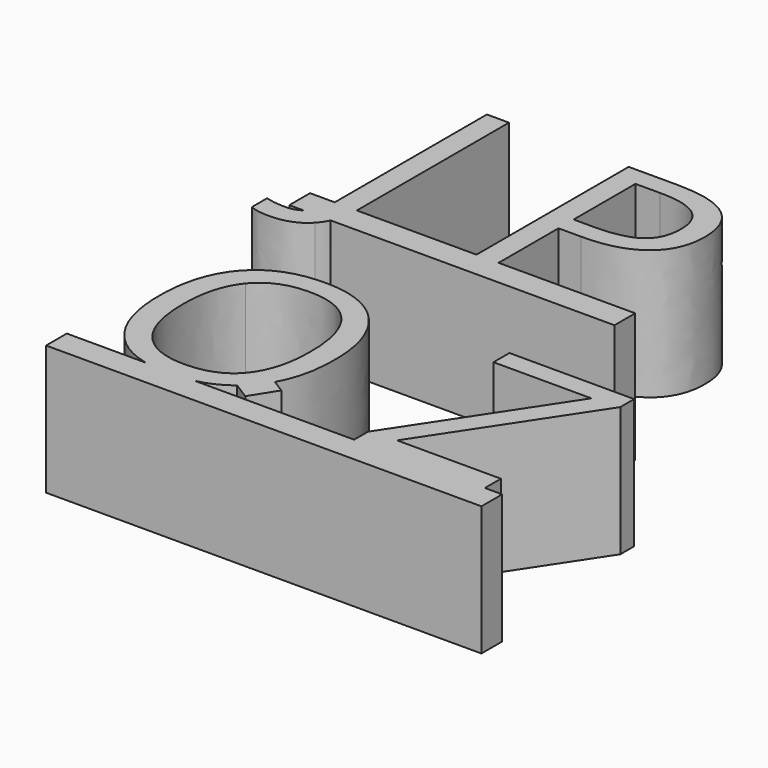
from build123d import *

# Parameters (mm, degrees)
F1_DEPTH = 25


with BuildPart() as f1:
    # F0 (on Top) → F1 (new body)
    with BuildSketch(Plane.XY):
        with BuildLine():
            Line((4.76953125, 0), (0, 0))
            Line((0, 0), (0, -5))
            Line((0, -5), (2.7536867479, -5))
            add(Edge.make_bspline(
                [(2.7536867479, -5), (3.1528031854, -4.7172538817), (3.4767795139, -4.3399522569)],
                knots=[0.7493901424, 0.7493901424, 0.7493901424, 1, 1, 1], degree=2))
            add(Edge.make_bspline(
                [(3.4767795139, -4.3399522569), (4.76953125, -2.8344184028), (4.76953125, 0)],
                knots=[0, 0, 0, 1, 1, 1], degree=2))
        make_face()
        with BuildLine():
            Line((4.76953125, 36.6868489583), (4.76953125, 0))
            Line((4.76953125, 0), (9.0298425084, 0))
            add(Edge.make_bspline(
                [(9.033203125, 0.3532986111), (9.033203125, 0.1751510307), (9.0298425084, 0)],
                knots=[0, 0, 0, 0.0373511717, 0.0373511717, 0.0373511717], degree=2))
            Line((9.033203125, 0.3532986111), (9.033203125, 36.6868489583))
            Line((9.033203125, 36.6868489583), (4.76953125, 36.6868489583))
        make_face()
        with BuildLine():
            Line((9.0298425084, 0), (4.76953125, 0))
            add(Edge.make_bspline(
                [(3.4767795139, -4.3399522569), (4.76953125, -2.8344184028), (4.76953125, 0)],
                knots=[0, 0, 0, 1, 1, 1], degree=2))
            add(Edge.make_bspline(
                [(2.7536867479, -5), (3.1528031854, -4.7172538817), (3.4767795139, -4.3399522569)],
                knots=[0.7493901424, 0.7493901424, 0.7493901424, 1, 1, 1], degree=2))
            Line((2.7536867479, -5), (7.987156225, -5))
            add(Edge.make_bspline(
                [(9.0298425084, 0), (8.9739126319, -2.9149934948), (7.987156225, -5)],
                knots=[0.0373511717, 0.0373511717, 0.0373511717, 0.6589771022, 0.6589771022, 0.6589771022], degree=2))
        make_face()
        with BuildLine():
            Line((32.1180555556, 0), (9.0298425084, 0))
            add(Edge.make_bspline(
                [(9.0298425084, 0), (8.9739126319, -2.9149934948), (7.987156225, -5)],
                knots=[0.0373511717, 0.0373511717, 0.0373511717, 0.6589771022, 0.6589771022, 0.6589771022], degree=2))
            Line((7.987156225, -5), (62.7265625, -5))
            Line((62.7265625, -5), (62.7265625, 0))
            Line((62.7265625, 0), (36.3817274306, 0))
            Line((36.3817274306, 0), (32.1180555556, 0))
        make_face()
        with BuildLine():
            Line((7.987156225, -5), (2.7536867479, -5))
            add(Edge.make_bspline(
                [(-0.3051215278, -5.8454861111), (1.5602224249, -5.8454861111), (2.7536867479, -5)],
                knots=[0, 0, 0, 0.7493901424, 0.7493901424, 0.7493901424], degree=2))
            add(Edge.make_bspline(
                [(-4.0147569444, -5.34765625), (-2.2322048611, -5.8454861111), (-0.3051215278, -5.8454861111)],
                knots=[0, 0, 0, 1, 1, 1], degree=2))
            Line((-4.0147569444, -5.34765625), (-4.0147569444, -8.9850260417))
            add(Edge.make_bspline(
                [(-0.3051215278, -9.6595052083), (-2.6577690972, -9.6595052083), (-4.0147569444, -8.9850260417)],
                knots=[0, 0, 0, 1, 1, 1], degree=2))
            add(Edge.make_bspline(
                [(6.6243489583, -7.0378689236), (4.2154947917, -9.6595052083), (-0.3051215278, -9.6595052083)],
                knots=[0, 0, 0, 1, 1, 1], degree=2))
            add(Edge.make_bspline(
                [(7.987156225, -5), (7.4458233867, -6.1438309207), (6.6243489583, -7.0378689236)],
                knots=[0.6589771022, 0.6589771022, 0.6589771022, 1, 1, 1], degree=2))
        make_face()
        with BuildLine():
            Line((32.1180555556, 36.6868489583), (32.1180555556, 0))
            Line((32.1180555556, 0), (36.3817274306, 0))
            Line((36.3817274306, 0), (36.3817274306, 14.4290364583))
            Line((36.3817274306, 14.4290364583), (40.7016059028, 14.4290364583))
            add(Edge.make_bspline(
                [(51.5775824653, 17.4280598958), (47.7756076389, 14.4290364583), (40.7016059028, 14.4290364583)],
                knots=[0, 0, 0, 1, 1, 1], degree=2))
            add(Edge.make_bspline(
                [(55.3795572917, 25.9995659722), (55.3795572917, 20.4270833333), (51.5775824653, 17.4280598958)],
                knots=[0, 0, 0, 1, 1, 1], degree=2))
            add(Edge.make_bspline(
                [(41.6330295139, 36.6868489583), (55.3795572917, 36.6868489583), (55.3795572917, 25.9995659722)],
                knots=[0, 0, 0, 1, 1, 1], degree=2))
            Line((41.6330295139, 36.6868489583), (32.1180555556, 36.6868489583))
        make_face()
        with BuildLine():
            Line((40.2278645833, 18.0904947917), (36.3817274306, 18.0904947917))
            Line((36.3817274306, 18.0904947917), (36.3817274306, 32.9932725694))
            Line((36.3817274306, 32.9932725694), (41.1512586806, 32.9932725694))
            add(Edge.make_bspline(
                [(48.5785590278, 31.2147352431), (46.1937934028, 32.9932725694), (41.1512586806, 32.9932725694)],
                knots=[0, 0, 0, 1, 1, 1], degree=2))
            add(Edge.make_bspline(
                [(50.9633246528, 25.798828125), (50.9633246528, 29.4361979167), (48.5785590278, 31.2147352431)],
                knots=[0, 0, 0, 1, 1, 1], degree=2))
            add(Edge.make_bspline(
                [(48.4300130208, 19.9212239583), (50.9633246528, 21.751953125), (50.9633246528, 25.798828125)],
                knots=[0, 0, 0, 1, 1, 1], degree=2))
            add(Edge.make_bspline(
                [(40.2278645833, 18.0904947917), (45.8967013889, 18.0904947917), (48.4300130208, 19.9212239583)],
                knots=[0, 0, 0, 1, 1, 1], degree=2))
        make_face(mode=Mode.SUBTRACT)
        Polygon((55.427734375, -55.3025330059), (55.427734375, -58.6428107837), (80.6484375, -58.6428107837), (80.6484375, -54.7806146031), (60.6228298611, -54.7806146031), (80.0944010417, -25.2962396031), (80.0944010417, -21.9559618254), (56.0299479167, -21.9559618254), (56.0299479167, -25.7940694642), (74.8993055556, -25.7940694642), align=None)
        with BuildLine():
            Line((80.6484375, -58.6428107837), (55.427734375, -58.6428107837))
            Line((55.427734375, -58.6428107837), (24.7202634503, -58.6428107837))
            add(Edge.make_bspline(
                [(24.7202634503, -58.6428107837), (22.5588312474, -59.1486701587), (20.0496961806, -59.1486701587)],
                knots=[0.6833950988, 0.6833950988, 0.6833950988, 1, 1, 1], degree=2))
            add(Edge.make_bspline(
                [(20.0496961806, -59.1486701587), (17.4618872121, -59.1486701587), (15.2513223605, -58.6428107837)],
                knots=[0, 0, 0, 0.319412416, 0.319412416, 0.319412416], degree=2))
            Line((15.2513223605, -58.6428107837), (0, -58.6428107837))
            Line((0, -58.6428107837), (0, -63.6428107837))
            Line((0, -63.6428107837), (83.9806857639, -63.6428107837))
            Line((83.9806857639, -63.6428107837), (83.9806857639, -58.6428107837))
            Line((83.9806857639, -58.6428107837), (80.6484375, -58.6428107837))
        make_face()
        with BuildLine():
            add(Edge.make_bspline(
                [(24.7202634503, -58.6428107837), (22.5588312474, -59.1486701587), (20.0496961806, -59.1486701587)],
                knots=[0.6833950988, 0.6833950988, 0.6833950988, 1, 1, 1], degree=2))
            Line((24.7202634503, -58.6428107837), (15.2513223605, -58.6428107837))
            add(Edge.make_bspline(
                [(20.0496961806, -59.1486701587), (17.4618872121, -59.1486701587), (15.2513223605, -58.6428107837)],
                knots=[0, 0, 0, 0.319412416, 0.319412416, 0.319412416], degree=2))
        make_face()
        with BuildLine():
            Line((15.2513223605, -58.6428107837), (24.7202634503, -58.6428107837))
            add(Edge.make_bspline(
                [(30.616204684, -55.8347158125), (28.0910580539, -57.8539134733), (24.7202634503, -58.6428107837)],
                knots=[0.1896437375, 0.1896437375, 0.1896437375, 0.6833950988, 0.6833950988, 0.6833950988], degree=2))
            Line((30.616204684, -55.8347158125), (30.5317305028, -55.7815283537))
            Line((30.5317305028, -55.7815283537), (33.7639600039, -51.0173855737))
            Line((33.7639600039, -51.0173855737), (34.355158139, -51.3896215167))
            add(Edge.make_bspline(
                [(36.8875868056, -40.2471944642), (36.8875868056, -46.8872754051), (34.355158139, -51.3896215167)],
                knots=[0, 0, 0, 0.7538370735, 0.7538370735, 0.7538370735], degree=2))
            add(Edge.make_bspline(
                [(32.447265625, -26.3962830059), (36.8875868056, -31.4147291865), (36.8875868056, -40.2471944642)],
                knots=[0, 0, 0, 1, 1, 1], degree=2))
            add(Edge.make_bspline(
                [(20.0978732639, -21.3778368254), (28.0069444444, -21.3778368254), (32.447265625, -26.3962830059)],
                knots=[0, 0, 0, 1, 1, 1], degree=2))
            add(Edge.make_bspline(
                [(7.5557725694, -26.3079583531), (11.9720052083, -21.3778368254), (20.0978732639, -21.3778368254)],
                knots=[0, 0, 0, 1, 1, 1], degree=2))
            add(Edge.make_bspline(
                [(3.1395399306, -40.1990173809), (3.1395399306, -31.2380798809), (7.5557725694, -26.3079583531)],
                knots=[0, 0, 0, 1, 1, 1], degree=2))
            add(Edge.make_bspline(
                [(7.5437282986, -54.1904453323), (3.1395399306, -49.2322205059), (3.1395399306, -40.1990173809)],
                knots=[0, 0, 0, 1, 1, 1], degree=2))
            add(Edge.make_bspline(
                [(15.2513223605, -58.6428107837), (10.5411642195, -57.5649515878), (7.5437282986, -54.1904453323)],
                knots=[0.319412416, 0.319412416, 0.319412416, 1, 1, 1], degree=2))
        make_face()
        with BuildLine():
            add(Edge.make_bspline(
                [(7.6521267361, -40.2471944642), (7.6521267361, -47.6985833531), (10.8277994792, -51.5527500198)],
                knots=[0, 0, 0, 1, 1, 1], degree=2))
            add(Edge.make_bspline(
                [(10.8277994792, -29.0460225892), (7.6521267361, -32.9001892559), (7.6521267361, -40.2471944642)],
                knots=[0, 0, 0, 1, 1, 1], degree=2))
            add(Edge.make_bspline(
                [(20.0978732639, -25.1918559226), (14.0034722222, -25.1918559226), (10.8277994792, -29.0460225892)],
                knots=[0, 0, 0, 1, 1, 1], degree=2))
            add(Edge.make_bspline(
                [(29.267578125, -29.0179192906), (26.1681857639, -25.1918559226), (20.0978732639, -25.1918559226)],
                knots=[0, 0, 0, 1, 1, 1], degree=2))
            add(Edge.make_bspline(
                [(32.3669704861, -40.2471944642), (32.3669704861, -32.8439826587), (29.267578125, -29.0179192906)],
                knots=[0, 0, 0, 1, 1, 1], degree=2))
            add(Edge.make_bspline(
                [(29.2555338542, -51.5688090476), (32.3669704861, -47.7307014087), (32.3669704861, -40.2471944642)],
                knots=[0, 0, 0, 1, 1, 1], degree=2))
            add(Edge.make_bspline(
                [(20.0496961806, -55.4069166865), (26.1440972222, -55.4069166865), (29.2555338542, -51.5688090476)],
                knots=[0, 0, 0, 1, 1, 1], degree=2))
            add(Edge.make_bspline(
                [(10.8277994792, -51.5527500198), (14.0034722222, -55.4069166865), (20.0496961806, -55.4069166865)],
                knots=[0, 0, 0, 1, 1, 1], degree=2))
        make_face(mode=Mode.SUBTRACT)
        with BuildLine():
            add(Edge.make_bspline(
                [(32.4312065972, -54.1021206795), (31.586081999, -55.059167184), (30.616204684, -55.8347158125)],
                knots=[0, 0, 0, 0.1896437375, 0.1896437375, 0.1896437375], degree=2))
            Line((30.616204684, -55.8347158125), (33.7639600039, -57.8166362555))
            Line((33.7639600039, -57.8166362555), (36.8296342213, -52.9476253114))
            Line((36.8296342213, -52.9476253114), (34.355158139, -51.3896215167))
            add(Edge.make_bspline(
                [(34.355158139, -51.3896215167), (33.528202191, -52.8598472909), (32.4312065972, -54.1021206795)],
                knots=[0.7538370735, 0.7538370735, 0.7538370735, 1, 1, 1], degree=2))
        make_face()
        with BuildLine():
            Line((30.5317305028, -55.7815283537), (30.616204684, -55.8347158125))
            add(Edge.make_bspline(
                [(32.4312065972, -54.1021206795), (31.586081999, -55.059167184), (30.616204684, -55.8347158125)],
                knots=[0, 0, 0, 0.1896437375, 0.1896437375, 0.1896437375], degree=2))
            add(Edge.make_bspline(
                [(34.355158139, -51.3896215167), (33.528202191, -52.8598472909), (32.4312065972, -54.1021206795)],
                knots=[0.7538370735, 0.7538370735, 0.7538370735, 1, 1, 1], degree=2))
            Line((34.355158139, -51.3896215167), (33.7639600039, -51.0173855737))
            Line((33.7639600039, -51.0173855737), (30.5317305028, -55.7815283537))
        make_face()
    extrude(amount=F1_DEPTH)


solid = f1.part
